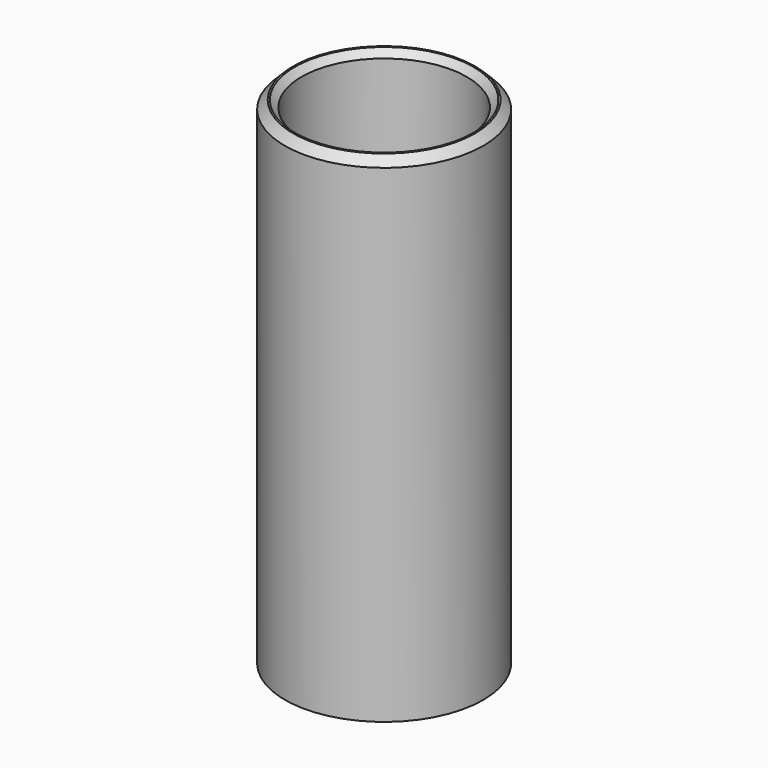
from build123d import *

# Parameters (mm, degrees)
SKETCH_R        = 6
SKETCH_R_2      = 5
PAD_DEPTH       = 30
CHAMFER_SIZE    = 0.5
CHAMFER001_SIZE = 0.4
CHAMFER002_SIZE = 0.4


with BuildPart() as part:
    # Sketch → Pad (new body)
    with BuildSketch(Plane.XY):
        Circle(SKETCH_R)
        Circle(SKETCH_R_2, mode=Mode.SUBTRACT)
    extrude(amount=PAD_DEPTH)

    # Chamfer
    chamfer_edges = [part.edges().sort_by_distance(p)[0] for p in [
        (-6, 0, 30),
    ]]
    chamfer(chamfer_edges, length=CHAMFER_SIZE)

    # Chamfer001
    chamfer001_edges = [part.edges().sort_by_distance(p)[0] for p in [
        (-5, 0, 30),
    ]]
    chamfer(chamfer001_edges, length=CHAMFER001_SIZE)

    # Chamfer002
    chamfer002_edges = [part.edges().sort_by_distance(p)[0] for p in [
        (-5, 0, 0),
    ]]
    chamfer(chamfer002_edges, length=CHAMFER002_SIZE)


solid = part.part
